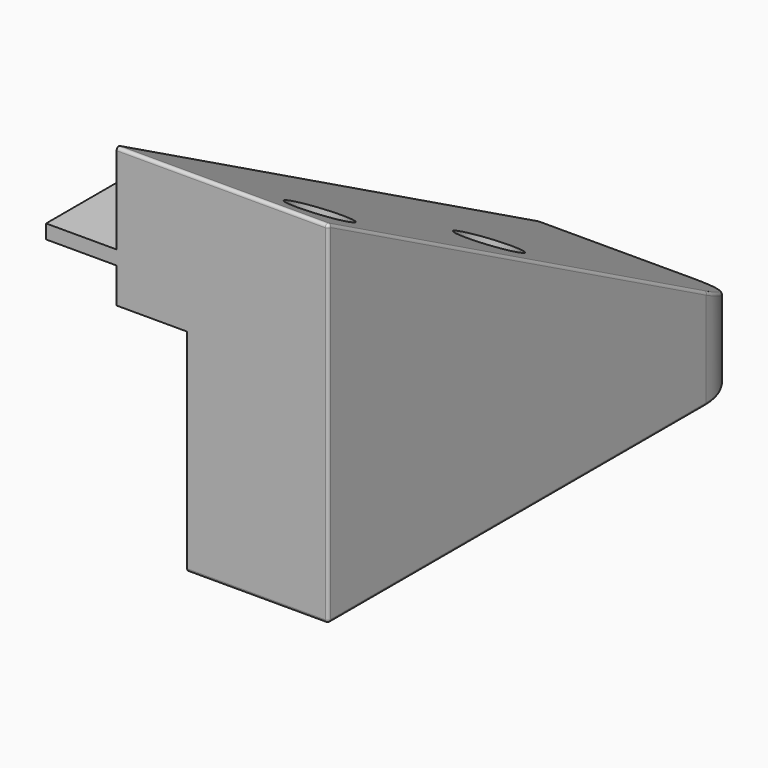
from build123d import *

# Parameters (mm, degrees)
PAD005_DEPTH    = 30
POCKET007_DEPTH = 10
SKETCH019_W     = 20
SKETCH019_H     = 2
PAD006_DEPTH    = 10
PAD018_DEPTH    = 10
SKETCH016_R     = 2
POCKET005_DEPTH = 2.001
SKETCH017_R     = 4
POCKET006_DEPTH = 48.001
FILLET002_R     = 8
FILLET003_R     = 0.4


with BuildPart() as rearhullleftbody:
    # Sketch015 → Pad005 (new body)
    with BuildSketch(Plane.YZ):
        Polygon((0, 40), (0, 0), (75, 0), align=None)
    extrude(amount=PAD005_DEPTH)

    # Sketch018 (on Face5 of Pad005) → Pocket007 (cut)
    with BuildSketch(Plane.YZ.offset(30)):
        Polygon((0, 20), (0, 0), (50, 0), (50, 5), align=None)
    extrude(amount=-POCKET007_DEPTH, mode=Mode.SUBTRACT)

    # Sketch019 (on Face6 of Pocket007) → Pad006 (join)
    with BuildSketch(Plane.YZ.offset(30)):
        with Locations((10, 26)):
            Rectangle(SKETCH019_W, SKETCH019_H)
    extrude(amount=PAD006_DEPTH)

    # Pad006 Face2 → Pad018 (add)
    with BuildSketch(Plane(origin=(12.142857, 41.071429, 0), x_dir=(0, -1, 0), z_dir=(0, 0, -1))):
        Polygon((41.071429, 12.142857), (-33.928571, 12.142857), (-33.928571, -17.857143), (-8.928571, -17.857143), (-8.928571, -7.857143), (41.071429, -7.857143), align=None)
    extrude(amount=PAD018_DEPTH)

    # Sketch016 (on DatumPlane) → Pocket005 (cut, through all)
    with BuildSketch(Plane(origin=(0, 0, -8), x_dir=(-1, 0, 0), z_dir=(0, 0, -1))):
        with Locations((-8, 38.5)):
            Circle(SKETCH016_R)
        with Locations((-8, 8.5)):
            Circle(SKETCH016_R)
    extrude(amount=POCKET005_DEPTH, mode=Mode.SUBTRACT)

    # Sketch017 (on DatumPlane) → Pocket006 (cut, through all)
    with BuildSketch(Plane(origin=(0, 0, -8), x_dir=(-1, 0, 0), z_dir=(0, 0, -1))):
        with Locations((-8, 8.5)):
            Circle(SKETCH017_R)
        with Locations((-8, 38.5)):
            Circle(SKETCH017_R)
    extrude(amount=-POCKET006_DEPTH, mode=Mode.SUBTRACT)

    # Fillet002
    fillet002_edges = [rearhullleftbody.edges().sort_by_distance(p)[0] for p in [
        (0, 75, -5),
    ]]
    fillet(fillet002_edges, radius=FILLET002_R)

    # Fillet003
    fillet003_edges = [rearhullleftbody.edges().sort_by_distance(p)[0] for p in [
        (30, 75, -5),
        (0, 33.5, -10),
        (0, 0, 15),
        (10, 0, -10),
        (15, 0, 40),
        (19, 75, -10),
        (19, 75, 0),
        (0, 33.5, 22.133333),
        (30, 62.5, -10),
    ]]
    fillet(fillet003_edges, radius=FILLET003_R)


with BuildPart() as rearhullleftbody_1:
    # Body006 placement: moved
    add(rearhullleftbody.part.moved(Location((-77.5, 25, 13))))


with BuildPart() as part_mirroring001:
    # Part__Mirroring001: instance of RearHullLeftBody
    add(rearhullleftbody_1.part.mirror(Plane(origin=(0, 0, 0), x_dir=(0, -1, 0), z_dir=(1, 0, 0))))


solid = part_mirroring001.part
